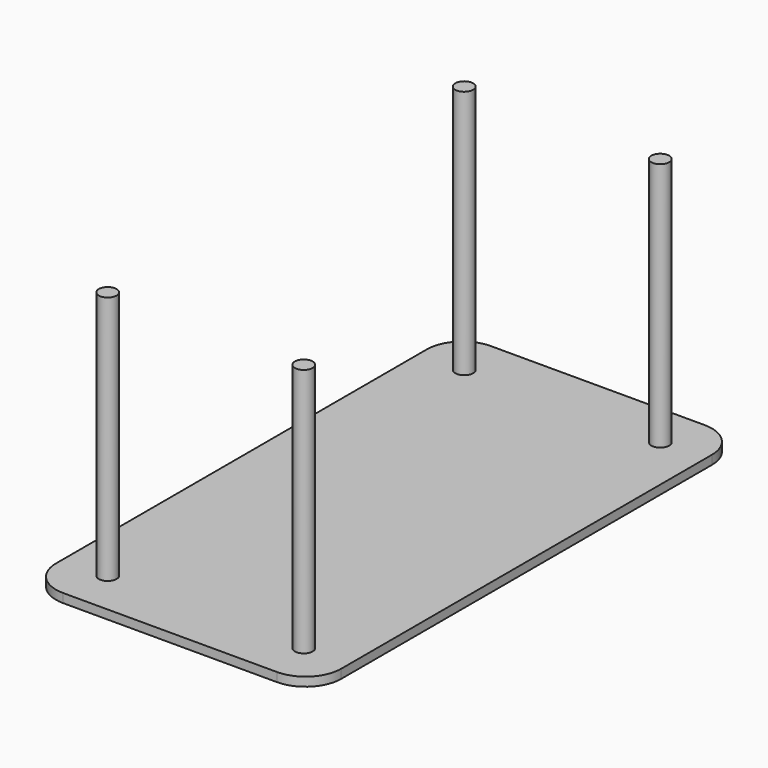
from build123d import *

# Parameters (mm, degrees)
F0_W     = 800
F0_H     = 1500
F1_DEPTH = 25
F2_R     = 25
F3_DEPTH = 700
F6_R     = 100


with BuildPart() as f1:
    # F0 (on Top) → F1 (new body)
    with BuildSketch(Plane.XY):
        Rectangle(F0_W, F0_H)
    extrude(amount=F1_DEPTH)

    # F2 (on face) → F3 (join)
    with BuildSketch(Plane.XY.offset(25)):
        with Locations((-275, 625)):
            Circle(F2_R)
    extrude(amount=F3_DEPTH)

    # F4: F1 across plane


with BuildPart() as f1_1:
    add(f1.part)
    add(f1.part.mirror(Plane.XZ))

    # F5: F1 across plane


with BuildPart() as f1_2:
    add(f1_1.part)
    add(f1_1.part.mirror(Plane.YZ))

    # F6
    f6_edges = [f1_2.edges().sort_by_distance(p)[0] for p in [
        (-400, 750, 12.5),
        (400, 750, 12.5),
        (400, -750, 12.5),
        (-400, -750, 12.5),
    ]]
    fillet(f6_edges, radius=F6_R)


solid = f1_2.part
